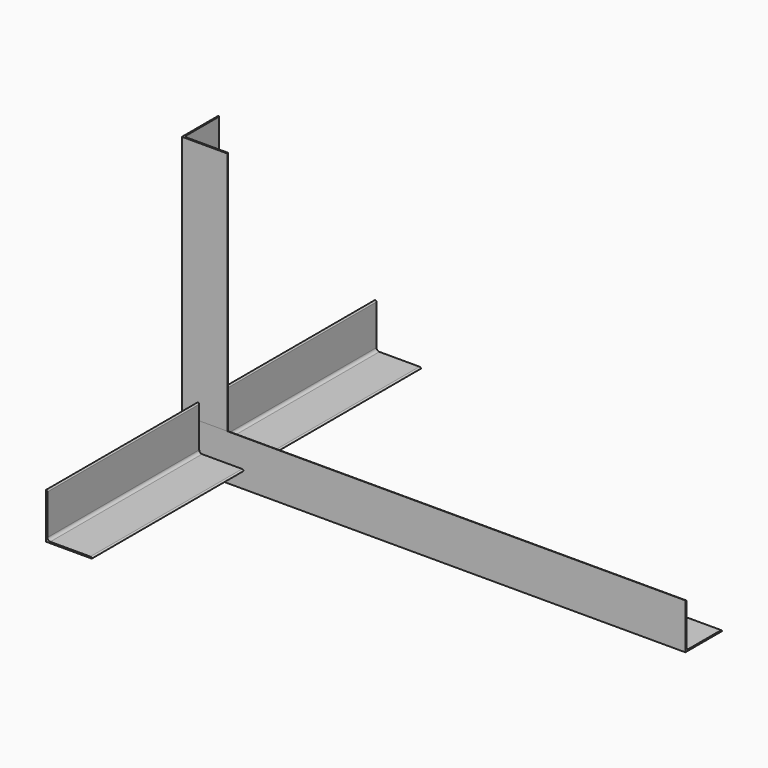
from build123d import *

# Parameters (mm, degrees)
F1_DEPTH = 171.45
F3_DEPTH = 228.6
F5_DEPTH = 406.4


with BuildPart() as f1:
    # F0 (on Front) → F1 (new body, symmetric)
    with BuildSketch(Plane.XZ):
        with BuildLine():
            ThreePointArc((1.143, 36.957), (0.8082230509, 37.7652230509), (0, 38.1))
            Line((0, 38.1), (0, 0))
            Line((0, 0), (38.1, 0))
            ThreePointArc((38.1, 0), (37.7652230509, 0.8082230509), (36.957, 1.143))
            Line((36.957, 1.143), (3.5052, 1.143))
            ThreePointArc((3.5052, 1.143), (1.8348723615, 1.8348723615), (1.143, 3.5052))
            Line((1.143, 3.5052), (1.143, 36.957))
        make_face()
    extrude(amount=F1_DEPTH, both=True)


with BuildPart() as f3:
    # F2 (on Top) → F3 (new body)
    with BuildSketch(Plane.XY):
        with BuildLine():
            ThreePointArc((-12.1339824644, 23.6800175356), (-12.4687594135, 24.4882405865), (-13.2769824644, 24.8230175356))
            Line((-13.2769824644, 24.8230175356), (-13.2769824644, -13.2769824644))
            Line((-13.2769824644, -13.2769824644), (24.8230175356, -13.2769824644))
            ThreePointArc((24.8230175356, -13.2769824644), (24.4882405865, -12.4687594135), (23.6800175356, -12.1339824644))
            Line((23.6800175356, -12.1339824644), (-9.7717824644, -12.1339824644))
            ThreePointArc((-9.7717824644, -12.1339824644), (-11.442110103, -11.442110103), (-12.1339824644, -9.7717824644))
            Line((-12.1339824644, -9.7717824644), (-12.1339824644, 23.6800175356))
        make_face()
    extrude(amount=F3_DEPTH)


with BuildPart() as f5:
    # F4 (on Right) → F5 (new body)
    with BuildSketch(Plane.YZ):
        with BuildLine():
            ThreePointArc((-12.1339824644, 23.6800175356), (-12.4687594135, 24.4882405865), (-13.2769824644, 24.8230175356))
            Line((-13.2769824644, 24.8230175356), (-13.2769824644, -13.2769824644))
            Line((-13.2769824644, -13.2769824644), (24.8230175356, -13.2769824644))
            ThreePointArc((24.8230175356, -13.2769824644), (24.4882405865, -12.4687594135), (23.6800175356, -12.1339824644))
            Line((23.6800175356, -12.1339824644), (-9.7717824644, -12.1339824644))
            ThreePointArc((-9.7717824644, -12.1339824644), (-11.442110103, -11.442110103), (-12.1339824644, -9.7717824644))
            Line((-12.1339824644, -9.7717824644), (-12.1339824644, 23.6800175356))
        make_face()
    extrude(amount=F5_DEPTH)


solid = Compound([f1.part, f3.part, f5.part])
